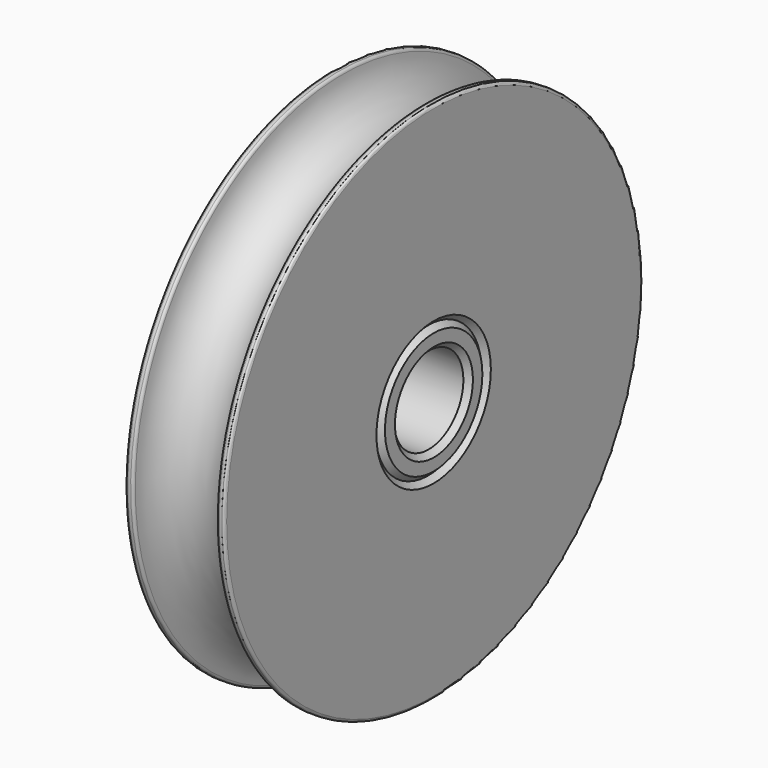
from build123d import *

# Parameters (mm, degrees)
CHAMFER_SIZE    = 0.508
FILLET_R        = 0.254
SKETCH001_R     = 6.35
SKETCH001_R_2   = 4.167187
PAD_DEPTH       = 4.7625
CHAMFER001_SIZE = 0.508


with BuildPart() as body:
    # Sketch → Revolution (revolve)
    with BuildSketch(Plane.XY):
        with BuildLine():
            Line((4.7625, 6.35), (4.7625, 25.07234))
            Line((4.7625, 25.07234), (4.0005, 25.07234))
            ThreePointArc((-4.0005, 25.07234), (0, 21.07184), (4.0005, 25.07234))
            Line((-4.7625, 25.07234), (-4.0005, 25.07234))
            Line((-4.7625, 25.07234), (-4.7625, 6.35))
            Line((-4.7625, 6.35), (4.7625, 6.35))
        make_face()
    revolve(axis=Axis((0, 0, 0), (1, 0, 0)))

    # Chamfer
    chamfer_edges = [body.edges().sort_by_distance(p)[0] for p in [
        (-4.7625, -6.35, 0),
        (4.7625, -6.35, 0),
        (0, 6.35, 0),
    ]]
    chamfer(chamfer_edges, length=CHAMFER_SIZE)

    # Fillet
    fillet_edges = [body.edges().sort_by_distance(p)[0] for p in [
        (4.7625, -25.07234, 0),
        (4.0005, -25.07234, 0),
        (-4.0005, -25.07234, 0),
        (-4.7625, -25.07234, 0),
    ]]
    fillet(fillet_edges, radius=FILLET_R)


with BuildPart() as body001:
    # Sketch001 → Pad (new body, symmetric)
    with BuildSketch(Plane.YZ):
        Circle(SKETCH001_R)
        with Locations((0.032829, 0)):
            Circle(SKETCH001_R_2, mode=Mode.SUBTRACT)
    extrude(amount=PAD_DEPTH, both=True)

    # Chamfer001
    chamfer001_edges = [body001.edges().sort_by_distance(p)[0] for p in [
        (-4.7625, -4.134358, 0),
        (-4.7625, -6.35, 0),
        (4.7625, -6.35, 0),
        (4.7625, -4.134359, 0),
    ]]
    chamfer(chamfer001_edges, length=CHAMFER001_SIZE)


solid = Compound([body.part, body001.part])
